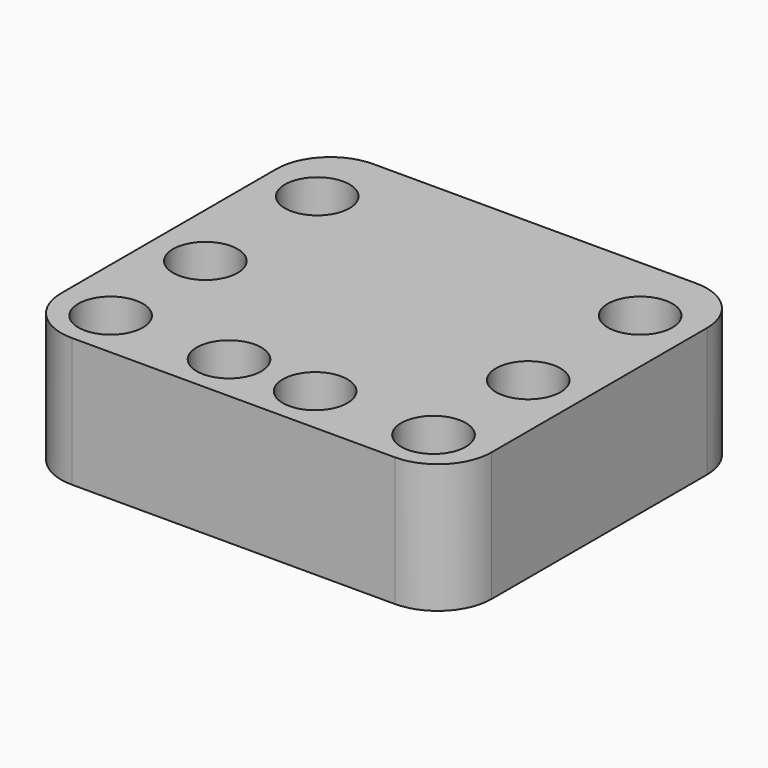
from build123d import *

# Parameters (mm, degrees)
F0_R     = 3
F0_R_2   = 11
F0_W     = 40
F0_H     = 9
F1_DEPTH = 12
F2_DEPTH = 4
F3_R     = 5
F4_R     = 1


with BuildPart() as f1:
    # F0 (on Top) → F1 (new body)
    with BuildSketch(Plane.XY):
        Polygon((40, 0), (0, 0), (0, -13), (0, -26), (40, -26), (40, -13), align=None)
        with Locations((5, -19.5)):
            Circle(F0_R, mode=Mode.SUBTRACT)
        with Locations((35, -19.5)):
            Circle(F0_R, mode=Mode.SUBTRACT)
        with Locations((5, -6.5)):
            Circle(F0_R, mode=Mode.SUBTRACT)
        with Locations((20, -13)):
            Circle(F0_R_2, mode=Mode.SUBTRACT)
        with Locations((35, -6.5)):
            Circle(F0_R, mode=Mode.SUBTRACT)
        with Locations((20, -13)):
            Circle(F0_R_2)
        with Locations((20, -30.5)):
            Rectangle(F0_W, F0_H)
        with Locations((5, -30.5)):
            Circle(F0_R, mode=Mode.SUBTRACT)
        with Locations((16, -30.5)):
            Circle(F0_R, mode=Mode.SUBTRACT)
        with Locations((24, -30.5)):
            Circle(F0_R, mode=Mode.SUBTRACT)
        with Locations((35, -30.5)):
            Circle(F0_R, mode=Mode.SUBTRACT)
    extrude(amount=F1_DEPTH)

    # F0 (on Top) → F2 (cut)
    with BuildSketch(Plane.XY):
        with Locations((20, -13)):
            Circle(F0_R_2)
    extrude(amount=F2_DEPTH, mode=Mode.SUBTRACT)

    # F3
    f3_edges = [f1.edges().sort_by_distance(p)[0] for p in [
        (40, -35, 6),
        (0, -35, 6),
        (0, 0, 6),
        (40, 0, 6),
    ]]
    fillet(f3_edges, radius=F3_R)

    # F4
    f4_edges = [f1.edges().sort_by_distance(p)[0] for p in [
        (9, -13, 4),
        (9, -13, 0),
    ]]
    fillet(f4_edges, radius=F4_R)


solid = f1.part
